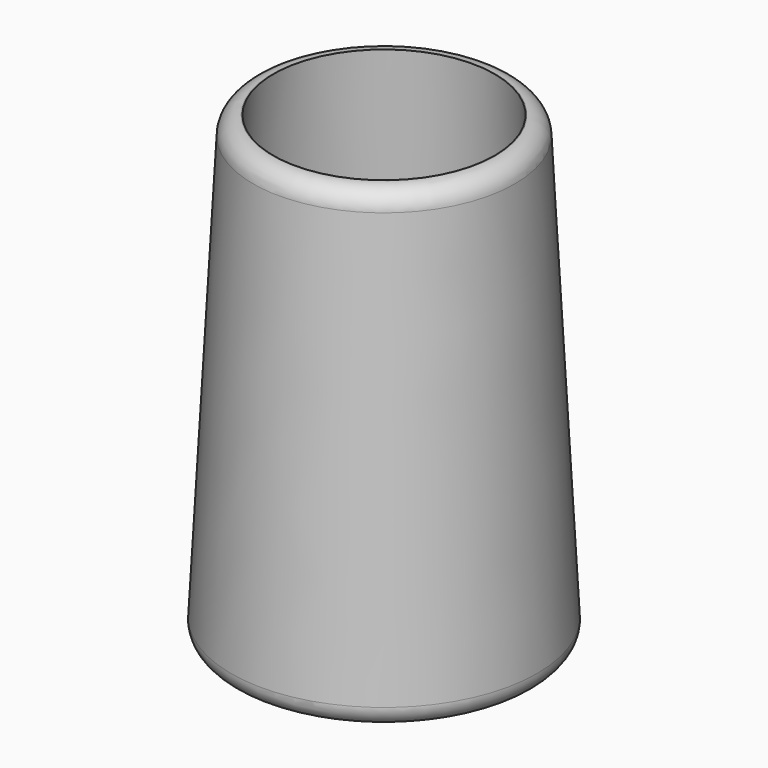
from build123d import *

# Parameters (mm, degrees)
F0_R     = 25.4
F1_DEPTH = 76.2
F1_TAPER = 3
F2_T     = -3.175
F3_R     = 3.175


with BuildPart() as f1:
    # F0 (on Top) → F1 (new body)
    with BuildSketch(Plane.XY):
        Circle(F0_R)
    extrude(amount=F1_DEPTH, taper=F1_TAPER)

    # F2
    f2_openings = [f1.faces().sort_by_distance(p)[0] for p in [
        (0, 0, 76.2),
    ]]
    offset(amount=F2_T, openings=f2_openings)

    # F3
    f3_edges = [f1.edges().sort_by_distance(p)[0] for p in [
        (-22.054248, 0, 3.175),
        (-21.406527, 0, 76.2),
        (-25.4, 0, 0),
    ]]
    fillet(f3_edges, radius=F3_R)


solid = f1.part
